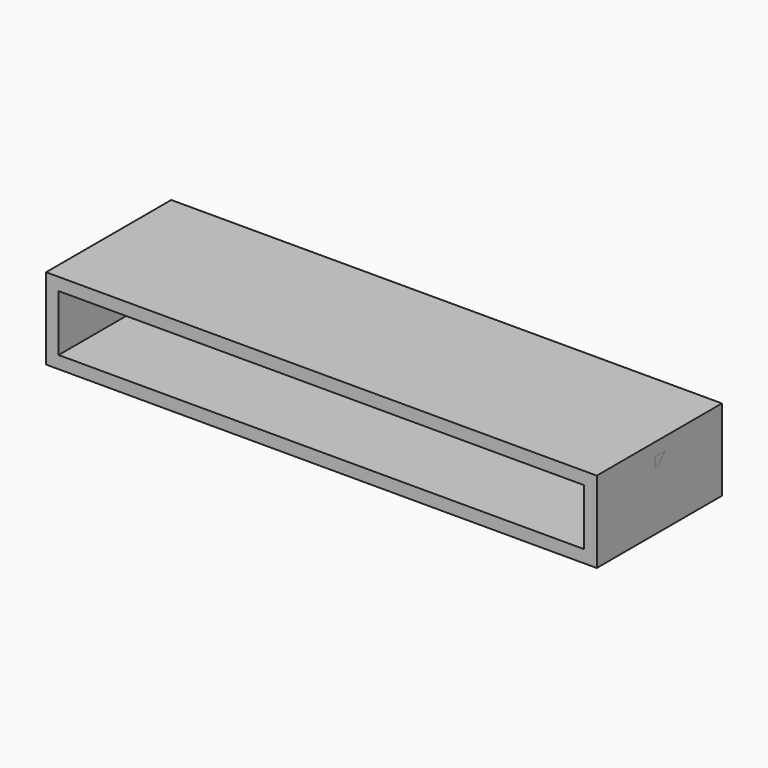
from build123d import *

# Parameters (mm, degrees)
F0_W     = 880
F0_H     = 130
F1_DEPTH = 250
F2_W     = 840
F2_H     = 90
F3_DEPTH = 230
F5_DEPTH = 800


with BuildPart() as f1:
    # F0 (on Front) → F1 (new body)
    with BuildSketch(Plane.XZ):
        Rectangle(F0_W, F0_H)
    extrude(amount=F1_DEPTH)

    # F2 (on face) → F3 (cut)
    with BuildSketch(Plane.XZ.offset(250)):
        Rectangle(F2_W, F2_H)
    extrude(amount=-F3_DEPTH, mode=Mode.SUBTRACT)


with BuildPart() as f5:
    # F4 (on face) → F5 (new body)
    with BuildSketch(Plane.YZ.offset(440)):
        Polygon((-127.704231, 29.183104), (-113.704231, 44.183104), (-133.704231, 44.183104), (-133.704231, 29.183104), align=None)
    extrude(amount=-F5_DEPTH)


solid = Compound([f1.part, f5.part])
